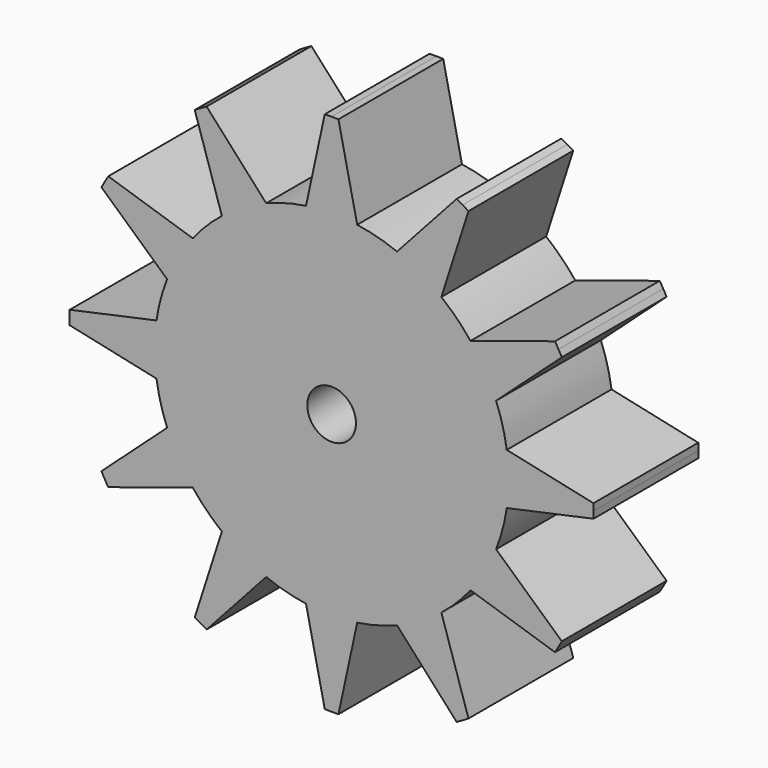
from build123d import *

# Parameters (mm, degrees)
F1_DEPTH = 17.5
F3_DEPTH = 9
F4_R     = 3.25
F5_DEPTH = 9


with BuildPart() as f1:
    # F0 (on Front) → F1 (new body)
    with BuildSketch(Plane.XZ):
        with BuildLine():
            ThreePointArc((23.401412, -3.42), (23.587771, -1.714511), (23.65, 0))
            ThreePointArc((23.65, 0), (23.587771, 1.714511), (23.401412, 3.42))
            ThreePointArc((23.401412, 3.42), (22.844146, 6.12107), (21.976218, 8.738899))
            ThreePointArc((21.976218, 8.738899), (20.481501, 11.825), (18.556218, 14.662513))
            ThreePointArc((18.556218, 14.662513), (16.723075, 16.723075), (14.662513, 18.556218))
            ThreePointArc((14.662513, 18.556218), (11.825, 20.481501), (8.738899, 21.976218))
            ThreePointArc((8.738899, 21.976218), (6.12107, 22.844146), (3.42, 23.401412))
            ThreePointArc((3.42, 23.401412), (0, 23.65), (-3.42, 23.401412))
            ThreePointArc((-3.42, 23.401412), (-6.12107, 22.844146), (-8.738899, 21.976218))
            ThreePointArc((-8.738899, 21.976218), (-11.825, 20.481501), (-14.662513, 18.556218))
            ThreePointArc((-14.662513, 18.556218), (-16.723075, 16.723075), (-18.556218, 14.662513))
            ThreePointArc((-18.556218, 14.662513), (-20.481501, 11.825), (-21.976218, 8.738899))
            ThreePointArc((-21.976218, 8.738899), (-22.844146, 6.12107), (-23.401412, 3.42))
            ThreePointArc((-23.401412, 3.42), (-23.65, 0), (-23.401412, -3.42))
            ThreePointArc((-23.401412, -3.42), (-22.844146, -6.12107), (-21.976218, -8.738899))
            ThreePointArc((-21.976218, -8.738899), (-20.481501, -11.825), (-18.556218, -14.662513))
            ThreePointArc((-18.556218, -14.662513), (-16.723075, -16.723075), (-14.662513, -18.556218))
            ThreePointArc((-14.662513, -18.556218), (-11.825, -20.481501), (-8.738899, -21.976218))
            ThreePointArc((-8.738899, -21.976218), (-6.12107, -22.844146), (-3.42, -23.401412))
            ThreePointArc((-3.42, -23.401412), (0, -23.65), (3.42, -23.401412))
            ThreePointArc((3.42, -23.401412), (6.12107, -22.844146), (8.738899, -21.976218))
            ThreePointArc((8.738899, -21.976218), (11.825, -20.481501), (14.662513, -18.556218))
            ThreePointArc((14.662513, -18.556218), (16.723075, -16.723075), (18.556218, -14.662513))
            ThreePointArc((18.556218, -14.662513), (20.481501, -11.825), (21.976218, -8.738899))
            ThreePointArc((21.976218, -8.738899), (22.844146, -6.12107), (23.401412, -3.42))
        make_face()
        with BuildLine():
            ThreePointArc((23.401412, 3.42), (23.587771, 1.714511), (23.65, 0))
            ThreePointArc((23.65, 0), (23.587771, -1.714511), (23.401412, -3.42))
            Line((23.401412, -3.42), (34.98804, -0.914922))
            Line((34.98804, -0.914922), (35, 0))
            Line((35, 0), (34.98804, 0.914922))
            Line((34.98804, 0.914922), (23.401412, 3.42))
        make_face()
        with BuildLine():
            ThreePointArc((18.556218, 14.662513), (20.481501, 11.825), (21.976218, 8.738899))
            Line((21.976218, 8.738899), (30.757992, 16.701674))
            Line((30.757992, 16.701674), (30.310889, 17.5))
            Line((30.310889, 17.5), (29.84307, 18.286365))
            Line((29.84307, 18.286365), (18.556218, 14.662513))
        make_face()
        with BuildLine():
            Line((30.757992, -16.701674), (21.976218, -8.738899))
            ThreePointArc((21.976218, -8.738899), (20.481501, -11.825), (18.556218, -14.662513))
            Line((18.556218, -14.662513), (29.84307, -18.286365))
            Line((29.84307, -18.286365), (30.310889, -17.5))
            Line((30.310889, -17.5), (30.757992, -16.701674))
        make_face()
        with BuildLine():
            ThreePointArc((8.738899, 21.976218), (11.825, 20.481501), (14.662513, 18.556218))
            Line((14.662513, 18.556218), (18.286365, 29.84307))
            Line((18.286365, 29.84307), (17.5, 30.310889))
            Line((17.5, 30.310889), (16.701674, 30.757992))
            Line((16.701674, 30.757992), (8.738899, 21.976218))
        make_face()
        with BuildLine():
            Line((18.286365, -29.84307), (14.662513, -18.556218))
            ThreePointArc((14.662513, -18.556218), (11.825, -20.481501), (8.738899, -21.976218))
            Line((8.738899, -21.976218), (16.701674, -30.757992))
            Line((16.701674, -30.757992), (17.5, -30.310889))
            Line((17.5, -30.310889), (18.286365, -29.84307))
        make_face()
        with BuildLine():
            ThreePointArc((-3.42, 23.401412), (0, 23.65), (3.42, 23.401412))
            Line((3.42, 23.401412), (0.914922, 34.98804))
            Line((0.914922, 34.98804), (0, 35))
            Line((0, 35), (-0.914922, 34.98804))
            Line((-0.914922, 34.98804), (-3.42, 23.401412))
        make_face()
        with BuildLine():
            Line((0.914922, -34.98804), (3.42, -23.401412))
            ThreePointArc((3.42, -23.401412), (0, -23.65), (-3.42, -23.401412))
            Line((-3.42, -23.401412), (-0.914922, -34.98804))
            Line((-0.914922, -34.98804), (0, -35))
            Line((0, -35), (0.914922, -34.98804))
        make_face()
        with BuildLine():
            ThreePointArc((-14.662513, 18.556218), (-11.825, 20.481501), (-8.738899, 21.976218))
            Line((-8.738899, 21.976218), (-16.701674, 30.757992))
            Line((-16.701674, 30.757992), (-17.5, 30.310889))
            Line((-17.5, 30.310889), (-18.286365, 29.84307))
            Line((-18.286365, 29.84307), (-14.662513, 18.556218))
        make_face()
        with BuildLine():
            Line((-16.701674, -30.757992), (-8.738899, -21.976218))
            ThreePointArc((-8.738899, -21.976218), (-11.825, -20.481501), (-14.662513, -18.556218))
            Line((-14.662513, -18.556218), (-18.286365, -29.84307))
            Line((-18.286365, -29.84307), (-17.5, -30.310889))
            Line((-17.5, -30.310889), (-16.701674, -30.757992))
        make_face()
        with BuildLine():
            ThreePointArc((-21.976218, 8.738899), (-20.481501, 11.825), (-18.556218, 14.662513))
            Line((-18.556218, 14.662513), (-29.84307, 18.286365))
            Line((-29.84307, 18.286365), (-30.310889, 17.5))
            Line((-30.310889, 17.5), (-30.757992, 16.701674))
            Line((-30.757992, 16.701674), (-21.976218, 8.738899))
        make_face()
        with BuildLine():
            Line((-29.84307, -18.286365), (-18.556218, -14.662513))
            ThreePointArc((-18.556218, -14.662513), (-20.481501, -11.825), (-21.976218, -8.738899))
            Line((-21.976218, -8.738899), (-30.757992, -16.701674))
            Line((-30.757992, -16.701674), (-30.310889, -17.5))
            Line((-30.310889, -17.5), (-29.84307, -18.286365))
        make_face()
        with BuildLine():
            ThreePointArc((-23.401412, -3.42), (-23.65, 0), (-23.401412, 3.42))
            Line((-23.401412, 3.42), (-34.98804, 0.914922))
            Line((-34.98804, 0.914922), (-35, 0))
            Line((-35, 0), (-34.98804, -0.914922))
            Line((-34.98804, -0.914922), (-23.401412, -3.42))
        make_face()
    extrude(amount=F1_DEPTH)

    # F2 (on face) → F3 (cut)
    with BuildSketch(Plane(origin=(0, 0, 0), x_dir=(-1, 0, 0), z_dir=(0, 1, 0))):
        with BuildLine():
            Line((2, -2.236068), (2, 2.236068))
            ThreePointArc((2, 2.236068), (0, 3), (-2, 2.236068))
            Line((-2, 2.236068), (-2, -2.236068))
            ThreePointArc((-2, -2.236068), (0, -3), (2, -2.236068))
        make_face()
    extrude(amount=-F3_DEPTH, mode=Mode.SUBTRACT)

    # F4 (on face) → F5 (cut)
    with BuildSketch(Plane.XZ.offset(17.5)):
        Circle(F4_R)
    extrude(amount=-F5_DEPTH, mode=Mode.SUBTRACT)


solid = f1.part
